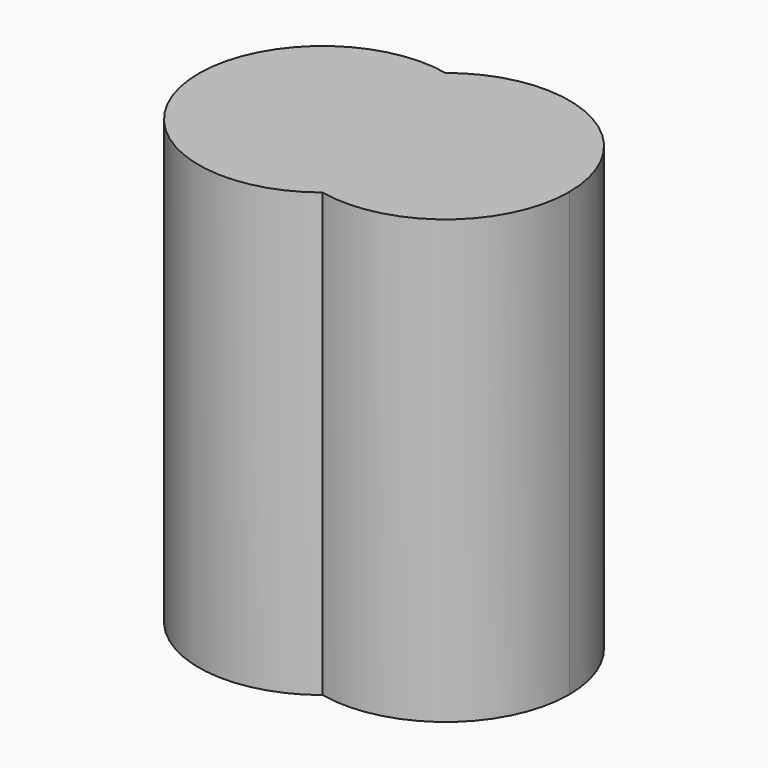
from build123d import *

# Parameters (mm, degrees)
F1_DEPTH = 5


with BuildPart() as f1:
    # F0 (on Top) → F1 (new body)
    with BuildSketch(Plane.XY):
        with BuildLine():
            ThreePointArc((0.256101, -1.241689), (-0.812191, -0.193475), (-0.322961, 1.22097))
            ThreePointArc((-0.322961, 1.22097), (-1.980332, -0.468149), (0.256101, -1.241689))
        make_face()
        with BuildLine():
            ThreePointArc((0.256101, -1.241689), (1.430312, -0.962141), (1.950641, 0.126977))
            ThreePointArc((1.950641, 0.126977), (1.157665, 1.388532), (-0.322961, 1.22097))
            ThreePointArc((-0.322961, 1.22097), (0.471617, 0.731975), (0.782499, -0.147696))
            ThreePointArc((0.782499, -0.147696), (0.644054, -0.754721), (0.256101, -1.241689))
        make_face()
        with BuildLine():
            ThreePointArc((0.782499, -0.147696), (0.471617, 0.731975), (-0.322961, 1.22097))
            ThreePointArc((-0.322961, 1.22097), (-0.812191, -0.193475), (0.256101, -1.241689))
            ThreePointArc((0.256101, -1.241689), (0.644054, -0.754721), (0.782499, -0.147696))
        make_face()
    extrude(amount=F1_DEPTH)


solid = f1.part
